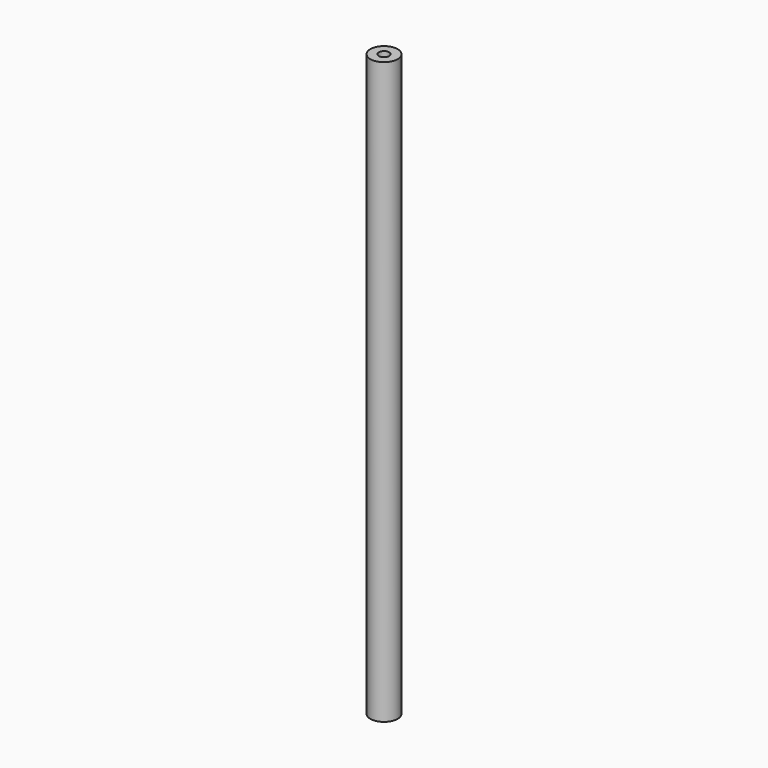
from build123d import *

# Parameters (mm, degrees)
SKETCH_R   = 6.7
SKETCH_R_2 = 2.55
PAD_DEPTH  = 285.75


with BuildPart() as part:
    # Sketch → Pad (new body)
    with BuildSketch(Plane.XY):
        Circle(SKETCH_R)
        Circle(SKETCH_R_2, mode=Mode.SUBTRACT)
    extrude(amount=PAD_DEPTH)


with BuildPart() as part_1:
    # Body placement: moved
    add(part.part.moved(Location((88, 0, 0))))


solid = part_1.part
